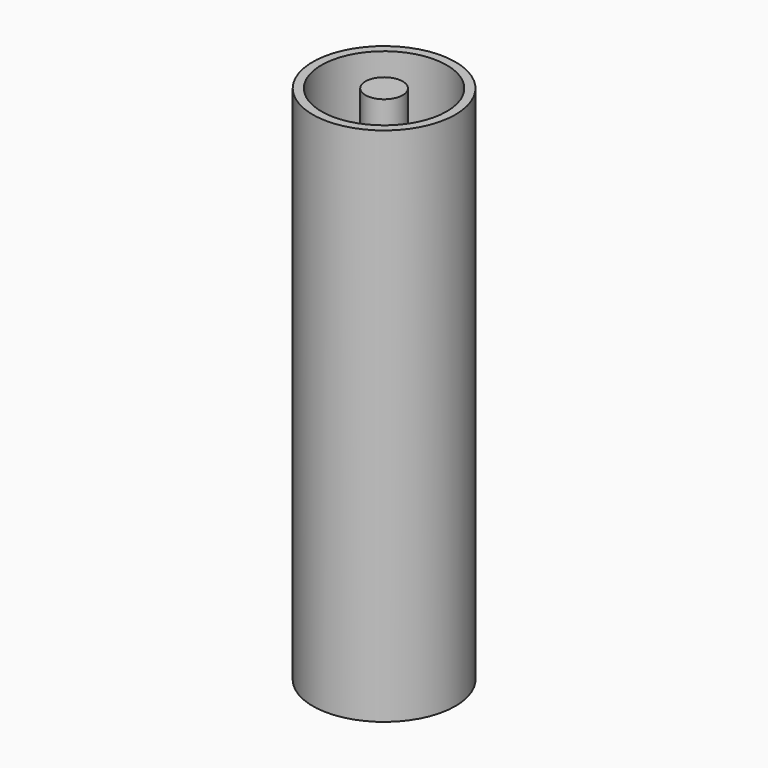
from build123d import *

# Parameters (mm, degrees)
F0_R     = 16.45
F0_R_2   = 14.45
F1_DEPTH = 120
F0_R_3   = 5.8
F2_DEPTH = 1.8
F3_START = 40
F0_R_4   = 4.3
F3_DEPTH = 80


with BuildPart() as f1:
    # F0 (on Top) → F1 (new body)
    with BuildSketch(Plane.XY):
        Circle(F0_R)
        Circle(F0_R_2, mode=Mode.SUBTRACT)
    extrude(amount=F1_DEPTH)

    # F0 (on Top) → F2 (join)
    with BuildSketch(Plane.XY):
        Circle(F0_R_2)
        Circle(F0_R_3, mode=Mode.SUBTRACT)
    extrude(amount=F2_DEPTH)


with BuildPart() as f3:
    # F0 (on Top) → F3 (new body)
    with BuildSketch(Plane.XY.offset(F3_START)):
        Circle(F0_R_4)
    extrude(amount=F3_DEPTH)


solid = Compound([f1.part, f3.part])
